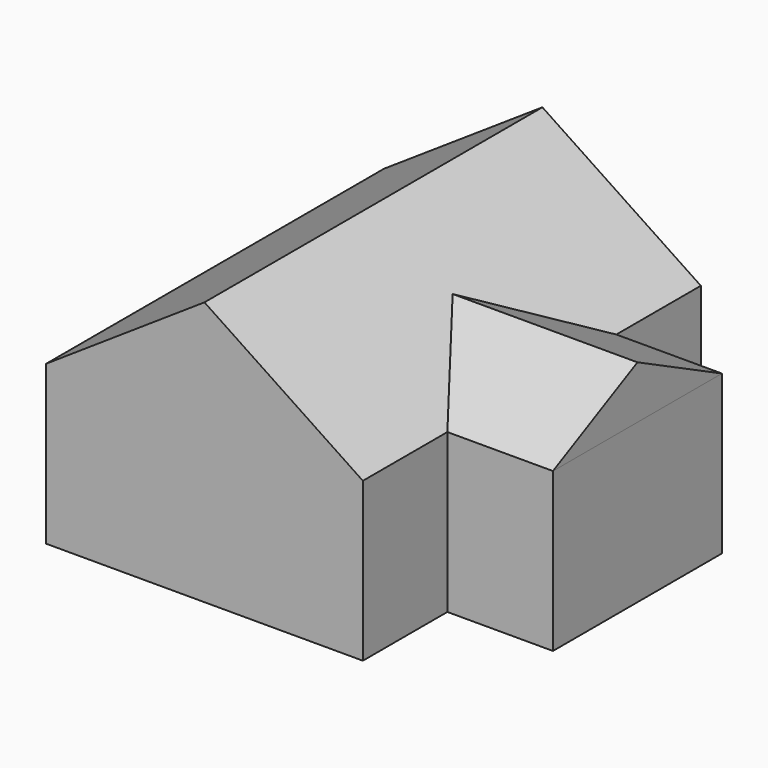
from build123d import *

# Parameters (mm, degrees)
F0_W     = 12.7
F0_H     = 19.05
F1_DEPTH = 50.8
F2_W     = 12.7
F2_H     = 19.05
F3_DEPTH = 12.7
F4_W     = 12.7
F4_H     = 19.05
F5_DEPTH = 12.7


with BuildPart() as f1:
    # F0 (on Front) → F1 (new body)
    with BuildSketch(Plane.XZ):
        Polygon((0, 19.05), (0, 0), (38.1, 0), (38.1, 19.05), (19.05, 31.75), align=None)
        with Locations((44.45, 9.525)):
            Rectangle(F0_W, F0_H)
    extrude(amount=F1_DEPTH)

    # F2 (on face) → F3 (cut)
    with BuildSketch(Plane.XZ.offset(50.8)):
        with Locations((44.45, 9.525)):
            Rectangle(F2_W, F2_H)
    extrude(amount=-F3_DEPTH, mode=Mode.SUBTRACT)

    # F4 (on face) → F5 (cut)
    with BuildSketch(Plane(origin=(0, 0, 0), x_dir=(-1, 0, 0), z_dir=(0, 1, 0))):
        with Locations((-44.45, 9.525)):
            Rectangle(F4_W, F4_H)
    extrude(amount=-F5_DEPTH, mode=Mode.SUBTRACT)


with BuildPart() as f7:
    # F6 (on face) → F7 (new body, up to the next surface of F1)
    with BuildSketch(Plane.YZ.offset(50.8)):
        Polygon((-25.4, 25.4), (-38.1, 19.05), (-12.7, 19.05), align=None)
    extrude(until=Until.NEXT, target=f1.part, dir=(-1, 0, 0))


solid = Compound([f1.part, f7.part])
